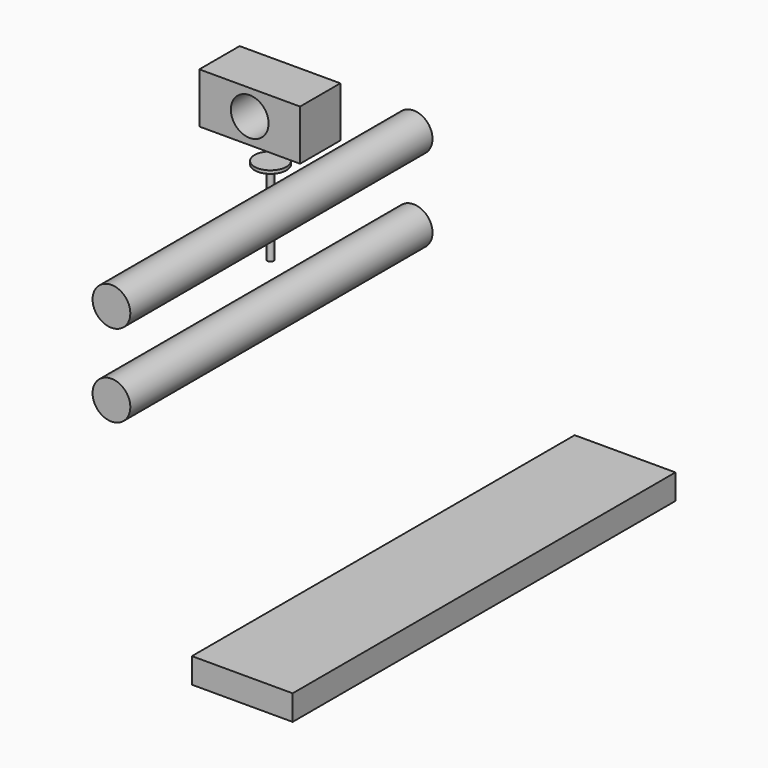
from build123d import *

# Parameters (mm, degrees)
F0_W     = 80
F0_H     = 40
F0_R     = 15
F1_DEPTH = 40
F2_DEPTH = 300
F0_H_2   = 20
F4_DEPTH = 380


with BuildPart() as f1:
    # F0 (on Front) → F1 (new body)
    with BuildSketch(Plane.XZ):
        with Locations((-98.189927, 40.832652)):
            Rectangle(F0_W, F0_H)
        with Locations((-98.189927, 40.832652)):
            Circle(F0_R, mode=Mode.SUBTRACT)
    extrude(amount=F1_DEPTH)


with BuildPart() as f2:
    # F0 (on Front) → F2 (new body)
    with BuildSketch(Plane.XZ):
        with Locations((0, 45.765889)):
            Circle(F0_R)
        with Locations((0, -19.790656)):
            Circle(F0_R)
    extrude(amount=F2_DEPTH)


with BuildPart() as f3:
    # F0 (on Front) → F3 (revolve)
    with BuildSketch(Plane.XZ):
        Polygon((-113.668603, -80.639288), (-113.668603, -11.474801), (-126.353458, -11.474801), (-126.353458, -13.974801), (-116.168603, -13.974801), (-116.168603, -80.639288), align=None)
    revolve(axis=Axis((-113.668603, 0, -46.057044), (0, 0, -1)))


with BuildPart() as f4:
    # F0 (on Front) → F4 (new body)
    with BuildSketch(Plane.XZ):
        with Locations((167.916649, -134.673288)):
            Rectangle(F0_W, F0_H_2)
    extrude(amount=F4_DEPTH)


solid = Compound([f1.part, f2.part, f3.part, f4.part])
